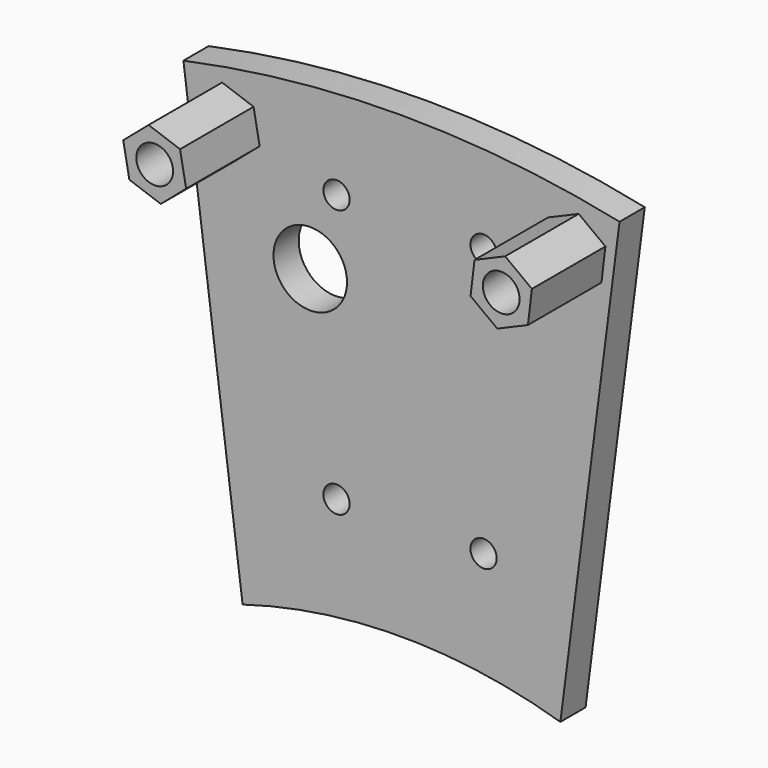
from build123d import *

# Parameters (mm, degrees)
F0_R     = 5
F0_R_2   = 14
F0_R_3   = 7
F1_DEPTH = 12
F2_R     = 7
F3_DEPTH = 35


with BuildPart() as f1:
    # F0 (on Front) → F1 (new body)
    with BuildSketch(Plane.XZ):
        with BuildLine():
            ThreePointArc((92.281039, 68.941148), (9.244381, 77.654919), (-73.792278, 68.941148))
            Line((-73.792278, 68.941148), (-51.255619, -106.058852))
            ThreePointArc((-51.255619, -106.058852), (9.244381, -97.160496), (69.744381, -106.058852))
            Line((69.744381, -106.058852), (92.281039, 68.941148))
        make_face()
        with Locations((-15.499966, -59.121081)):
            Circle(F0_R, mode=Mode.SUBTRACT)
        with Locations((40.500034, -59.121081)):
            Circle(F0_R, mode=Mode.SUBTRACT)
        with Locations((-25.499966, 14.878919)):
            Circle(F0_R_2, mode=Mode.SUBTRACT)
        with Locations((-56.733206, 53.914082)):
            Circle(F0_R_3, mode=Mode.SUBTRACT)
        with Locations((-15.499966, 42.878919)):
            Circle(F0_R, mode=Mode.SUBTRACT)
        with Locations((40.500034, 42.878919)):
            Circle(F0_R, mode=Mode.SUBTRACT)
        with Locations((75.221968, 53.914082)):
            Circle(F0_R_3, mode=Mode.SUBTRACT)
    extrude(amount=F1_DEPTH)

    # F2 (on face) → F3 (join)
    with BuildSketch(Plane.XZ.offset(12)):
        Polygon((-44.759003, 49.677128), (-47.076795, 62.16557), (-59.050998, 66.402524), (-68.70741, 58.151036), (-66.389618, 45.662595), (-54.415414, 41.425641), align=None)
        with Locations((-56.733206, 53.914082)):
            Circle(F2_R, mode=Mode.SUBTRACT)
        Polygon((76.729968, 66.525952), (65.053768, 61.525984), (63.545767, 48.914114), (73.713967, 41.302212), (85.390167, 46.30218), (86.898168, 58.914051), align=None)
        with Locations((75.221968, 53.914082)):
            Circle(F2_R, mode=Mode.SUBTRACT)
    extrude(amount=F3_DEPTH)


solid = f1.part
